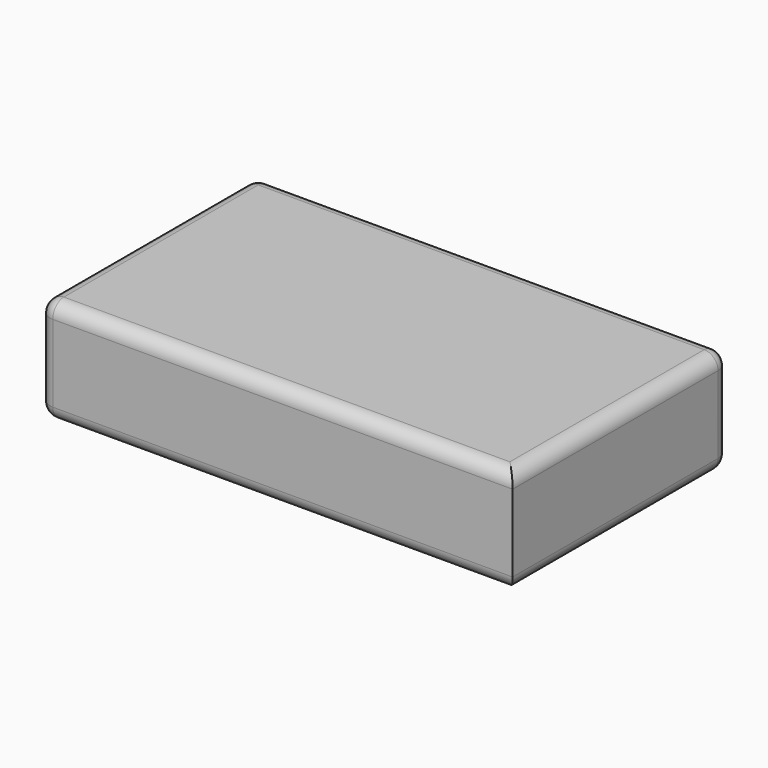
from build123d import *

# Parameters (mm, degrees)
F0_W     = 172.813967
F0_H     = 98.72356
F1_DEPTH = 38.354
F2_R     = 5.08


with BuildPart() as f1:
    # F0 (on Top) → F1 (new body)
    with BuildSketch(Plane.XY):
        with Locations((-0.38191, 2.86432)):
            Rectangle(F0_W, F0_H)
    extrude(amount=F1_DEPTH)

    # F2
    f2_edges = [f1.edges().sort_by_distance(p)[0] for p in [
        (-0.381909, -46.49746, 38.354),
        (-0.381909, -46.49746, 0),
        (86.025074, 2.86432, 38.354),
        (86.025074, 2.86432, 0),
        (-0.381909, 52.2261, 38.354),
        (-0.381909, 52.2261, 0),
        (86.025074, 52.2261, 19.177),
        (-86.788893, 52.2261, 19.177),
        (-86.788893, 2.86432, 38.354),
        (-86.788893, 2.86432, 0),
        (-86.788893, -46.49746, 19.177),
    ]]
    fillet(f2_edges, radius=F2_R)


solid = f1.part
